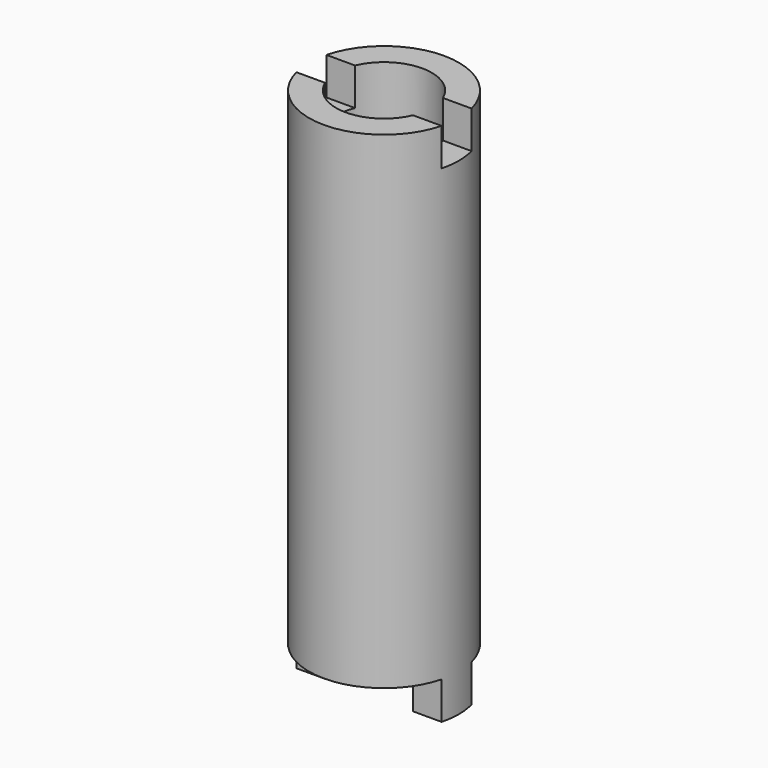
from build123d import *

# Parameters (mm, degrees)
F0_R     = 20
F0_R_2   = 12.75
F1_DEPTH = 100
F3_DEPTH = 25
F4_W     = 2
F4_H     = 2
F5_DEPTH = 50


with BuildPart() as f1:
    # F0 (on Top) → F1 (new body, symmetric)
    with BuildSketch(Plane.XY):
        Circle(F0_R)
        Circle(F0_R_2, mode=Mode.SUBTRACT)
    extrude(amount=F1_DEPTH, both=True)

    # F2 (on Right) → F3 (intersect, symmetric)
    with BuildSketch(Plane.YZ):
        Polygon((-5, 65.33519), (-30, 65.33519), (-30, -64.66481), (-5, -64.66481), (-5, -74.66481), (5, -74.66481), (5, -64.66481), (30, -64.66481), (30, 65.33519), (5, 65.33519), (5, 55.33519), (-5, 55.33519), align=None)
    extrude(amount=F3_DEPTH, both=True, mode=Mode.INTERSECT)

    # F4 (on Top) → F5 (cut, symmetric)
    with BuildSketch(Plane.XY):
        with Locations((0, 12.75)):
            Rectangle(F4_W, F4_H)
        Polygon((-6.09746, 10.093735), (-7.27303, 11.711769), (-8.891064, 10.536198), (-7.715494, 8.918164), align=None)
        Polygon((-10.865897, 4.582006), (-12.76801, 5.20004), (-13.386044, 3.297927), (-11.483931, 2.679893), align=None)
        Polygon((-11.483931, -2.679893), (-13.386044, -3.297927), (-12.76801, -5.20004), (-10.865897, -4.582006), align=None)
        Polygon((-7.715494, -8.918164), (-8.891064, -10.536198), (-7.27303, -11.711769), (-6.09746, -10.093735), align=None)
        with Locations((0, -12.75)):
            Rectangle(F4_W, F4_H)
        Polygon((6.09746, -10.093735), (7.27303, -11.711769), (8.891064, -10.536198), (7.715494, -8.918164), align=None)
        Polygon((10.865897, -4.582006), (12.76801, -5.20004), (13.386044, -3.297927), (11.483931, -2.679893), align=None)
        Polygon((11.483931, 2.679893), (13.386044, 3.297927), (12.76801, 5.20004), (10.865897, 4.582006), align=None)
        Polygon((7.715494, 8.918164), (8.891064, 10.536198), (7.27303, 11.711769), (6.09746, 10.093735), align=None)
    extrude(amount=F5_DEPTH, both=True, mode=Mode.SUBTRACT)


solid = f1.part
